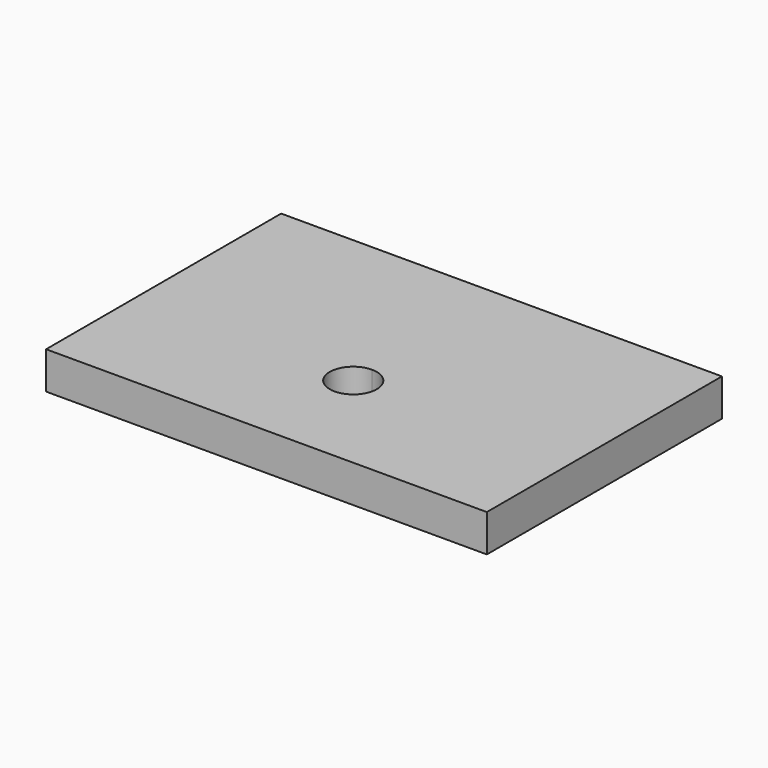
from build123d import *

# Parameters (mm, degrees)
F0_W     = 75
F0_H     = 50
F1_DEPTH = 6.35
F3_DEPTH = 6.351


with BuildPart() as f1:
    # F0 (on Top) → F1 (new body)
    with BuildSketch(Plane.XY):
        Rectangle(F0_W, F0_H)
    extrude(amount=F1_DEPTH)

    # F2 (on face) → F3 (cut, through all)
    with BuildSketch(Plane.XY.offset(6.35)):
        with BuildLine():
            ThreePointArc((0, -10.54), (2.828427, -9.368427), (4, -6.54))
            ThreePointArc((4, -6.54), (2.828427, -3.711573), (0, -2.54))
            ThreePointArc((0, -2.54), (-4, -6.54), (0, -10.54))
        make_face()
    extrude(amount=-F3_DEPTH, mode=Mode.SUBTRACT)


solid = f1.part
